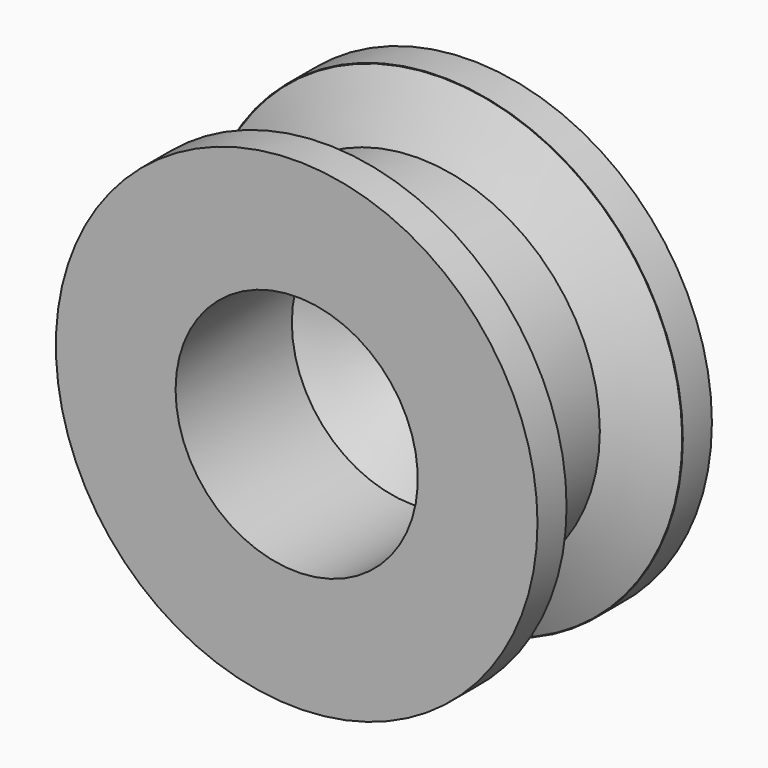
from build123d import *

# Parameters (mm, degrees)
F0_R     = 15.0004726412
F0_R_2   = 9.9068563463
F0_R_3   = 5.0694396424
F1_DEPTH = 9
F2_R     = 19.8859945384
F2_R_2   = 15.0004726412
F3_DEPTH = 3
F7_D     = 10
F8_D     = 20
F8_DEPTH = 12
F8_TIP   = 6.0086061903


with BuildPart() as f1:
    # F0 (on Front) → F1 (new body, symmetric)
    with BuildSketch(Plane.XZ):
        Circle(F0_R)
        Circle(F0_R_2, mode=Mode.SUBTRACT)
        Circle(F0_R_2)
        Circle(F0_R_3, mode=Mode.SUBTRACT)
        Circle(F0_R_3)
    extrude(amount=F1_DEPTH, both=True)

    # F2 (on face) → F3 (join)
    with BuildSketch(Plane.XZ.offset(9)):
        Circle(F2_R)
        Circle(F2_R_2, mode=Mode.SUBTRACT)
    extrude(amount=-F3_DEPTH)

    # F4: F1 across plane


with BuildPart() as f1_1:
    add(f1.part)
    add(f1.part.mirror(Plane.XZ))

    # F5 (on Right) → F6 (revolve)
    with BuildSketch(Plane.YZ):
        Polygon((-3.5, 14.9199490446), (-5.9903608635, 19.839907065), (-5.9903608635, 14.9199490446), align=None)
        Polygon((5.9543419629, 14.9199490446), (5.9903608635, 19.839907065), (3.5, 14.9199490446), align=None)
    revolve(axis=Axis((0, 0, 0), (0, -1, 0)))

    # F7 (through all)
    with Locations(Plane.XZ.offset(9)):
        with Locations((0, 0)):
            Hole(F7_D / 2)

    # F8
    with Locations(Plane.XZ.offset(9)):
        with Locations((0, 0)):
            Hole(F8_D / 2, depth=F8_DEPTH)
            with Locations((0, 0, -(F8_DEPTH + F8_TIP / 2))):  # 118° drill point
                Cone(0, F8_D / 2, F8_TIP, mode=Mode.SUBTRACT)


solid = f1_1.part
